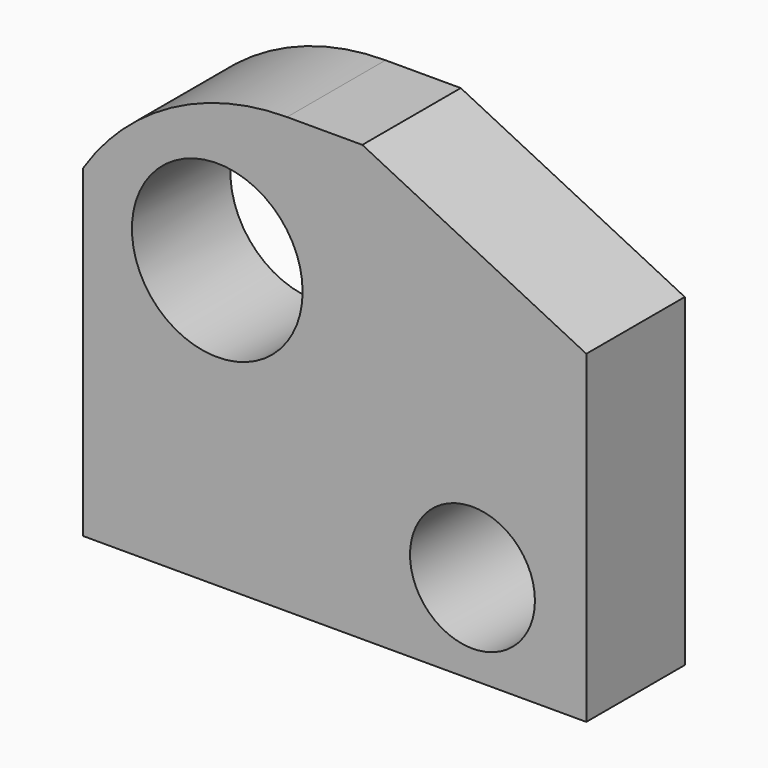
from build123d import *

# Parameters (mm, degrees)
F0_R     = 12.890084
F0_R_2   = 17.616366
F1_DEPTH = 25.4


with BuildPart() as f1:
    # F0 (on Front) → F1 (new body)
    with BuildSketch(Plane.XZ):
        with BuildLine():
            ThreePointArc((-21.979459, 22.926848), (-45.932702, 16.82294), (-64.043589, 0))
            Line((-64.043589, 0), (-64.043589, -66.885762))
            Line((-64.043589, -66.885762), (39.790392, -66.885762))
            Line((39.790392, -66.885762), (39.790392, 0))
            Line((39.790392, 0), (-6.442257, 22.926848))
            Line((-6.442257, 22.926848), (-21.979459, 22.926848))
        make_face()
        with Locations((16.295113, -48.316911)):
            Circle(F0_R, mode=Mode.SUBTRACT)
        with Locations((-36.379792, -7.768601)):
            Circle(F0_R_2, mode=Mode.SUBTRACT)
    extrude(amount=F1_DEPTH)


solid = f1.part
